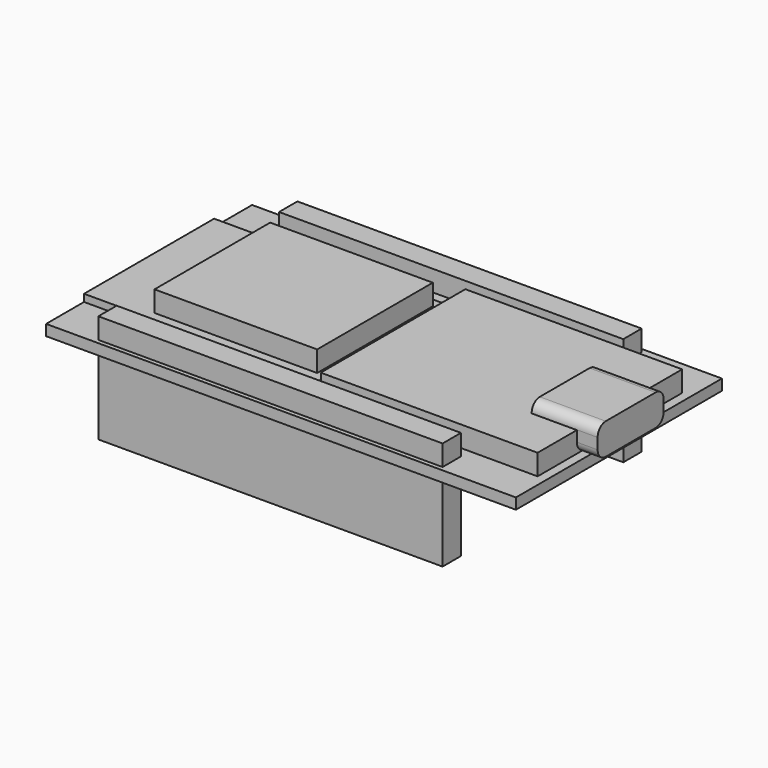
from build123d import *

# Parameters (mm, degrees)
SKETCH016_W       = 52
SKETCH016_H       = 28.5
PAD001_DEPTH      = 1.2
SKETCH017_W       = 26
SKETCH017_H       = 18
PAD003_DEPTH      = 2
SKETCH018_W       = 18
SKETCH018_H       = 16
PAD029_DEPTH      = 4.3
PAD030_DEPTH      = 7.3
SKETCH019_W       = 24
SKETCH019_H       = 20
PAD006_DEPTH      = 3.5
SKETCH020_W       = 38.1
SKETCH020_H       = 2.54
PAD031_DEPTH      = 8.5
PAD031_DEPTH_BACK = 3.5
SKETCH021_W       = 0.64
SKETCH021_H       = 0.64
PAD032_DEPTH      = 8.5


with BuildPart() as part:
    # Sketch016 → Pad001 (new body)
    with BuildSketch(Plane.XY):
        with Locations((26, 0)):
            Rectangle(SKETCH016_W, SKETCH016_H)
    extrude(amount=PAD001_DEPTH)

    # Sketch017 → Pad003 (join)
    with BuildSketch(Plane.XY):
        with Locations((13, 0)):
            Rectangle(SKETCH017_W, SKETCH017_H)
    extrude(amount=PAD003_DEPTH)

    # Sketch018 → Pad029 (join)
    with BuildSketch(Plane.XY):
        with Locations((16, 0)):
            Rectangle(SKETCH018_W, SKETCH018_H)
    extrude(amount=PAD029_DEPTH)

    # Sketch004 → Pad030 (join)
    with BuildSketch(Plane.YZ.offset(46)):
        with BuildLine():
            Line((-3.445, 1.2), (3.445, 1.2))
            ThreePointArc((3.445, 1.2), (4.240495, 1.529505), (4.57, 2.325))
            Line((4.57, 2.325), (4.57, 3.535))
            ThreePointArc((4.57, 3.535), (4.240495, 4.330495), (3.445, 4.66))
            Line((3.445, 4.66), (-3.445, 4.66))
            ThreePointArc((-3.445, 4.66), (-4.240495, 4.330495), (-4.57, 3.535))
            Line((-4.57, 3.535), (-4.57, 2.325))
            ThreePointArc((-4.57, 2.325), (-4.240495, 1.529505), (-3.445, 1.2))
        make_face()
    extrude(amount=PAD030_DEPTH)

    # Sketch019 → Pad006 (join)
    with BuildSketch(Plane.XY):
        with Locations((39, 0)):
            Rectangle(SKETCH019_W, SKETCH019_H)
    extrude(amount=PAD006_DEPTH)

    # Sketch020 → Pad031 (join, two sides)
    with BuildSketch(Plane.XY) as pad031_sk:
        with Locations((24.45, 12.5)):
            Rectangle(SKETCH020_W, SKETCH020_H)
        with Locations((24.45, -12.5)):
            Rectangle(SKETCH020_W, SKETCH020_H)
    extrude(amount=-PAD031_DEPTH)
    extrude(pad031_sk.sketch, amount=PAD031_DEPTH_BACK)

    # Sketch021 → Pad032 (join)
    with BuildSketch(Plane.XY):
        with Locations((6.82, 12.5)):
            Rectangle(SKETCH021_W, SKETCH021_H)
        with Locations((6.82, -12.5)):
            Rectangle(SKETCH021_W, SKETCH021_H)
        with Locations((9.36, 12.5)):
            Rectangle(SKETCH021_W, SKETCH021_H)
        with Locations((9.36, -12.5)):
            Rectangle(SKETCH021_W, SKETCH021_H)
        with Locations((11.9, 12.5)):
            Rectangle(SKETCH021_W, SKETCH021_H)
        with Locations((11.9, -12.5)):
            Rectangle(SKETCH021_W, SKETCH021_H)
        with Locations((14.44, 12.5)):
            Rectangle(SKETCH021_W, SKETCH021_H)
        with Locations((14.44, -12.5)):
            Rectangle(SKETCH021_W, SKETCH021_H)
        with Locations((16.98, 12.5)):
            Rectangle(SKETCH021_W, SKETCH021_H)
        with Locations((16.98, -12.5)):
            Rectangle(SKETCH021_W, SKETCH021_H)
        with Locations((19.52, 12.5)):
            Rectangle(SKETCH021_W, SKETCH021_H)
        with Locations((19.52, -12.5)):
            Rectangle(SKETCH021_W, SKETCH021_H)
        with Locations((22.06, 12.5)):
            Rectangle(SKETCH021_W, SKETCH021_H)
        with Locations((22.06, -12.5)):
            Rectangle(SKETCH021_W, SKETCH021_H)
        with Locations((24.6, 12.5)):
            Rectangle(SKETCH021_W, SKETCH021_H)
        with Locations((24.6, -12.5)):
            Rectangle(SKETCH021_W, SKETCH021_H)
        with Locations((27.14, 12.5)):
            Rectangle(SKETCH021_W, SKETCH021_H)
        with Locations((27.14, -12.5)):
            Rectangle(SKETCH021_W, SKETCH021_H)
        with Locations((29.68, 12.5)):
            Rectangle(SKETCH021_W, SKETCH021_H)
        with Locations((29.68, -12.5)):
            Rectangle(SKETCH021_W, SKETCH021_H)
        with Locations((32.22, 12.5)):
            Rectangle(SKETCH021_W, SKETCH021_H)
        with Locations((32.22, -12.5)):
            Rectangle(SKETCH021_W, SKETCH021_H)
        with Locations((34.76, 12.5)):
            Rectangle(SKETCH021_W, SKETCH021_H)
        with Locations((34.76, -12.5)):
            Rectangle(SKETCH021_W, SKETCH021_H)
        with Locations((37.3, 12.5)):
            Rectangle(SKETCH021_W, SKETCH021_H)
        with Locations((37.3, -12.5)):
            Rectangle(SKETCH021_W, SKETCH021_H)
        with Locations((39.84, 12.5)):
            Rectangle(SKETCH021_W, SKETCH021_H)
        with Locations((39.84, -12.5)):
            Rectangle(SKETCH021_W, SKETCH021_H)
        with Locations((42.38, 12.5)):
            Rectangle(SKETCH021_W, SKETCH021_H)
        with Locations((42.38, -12.5)):
            Rectangle(SKETCH021_W, SKETCH021_H)
    extrude(amount=-PAD032_DEPTH)


solid = part.part
